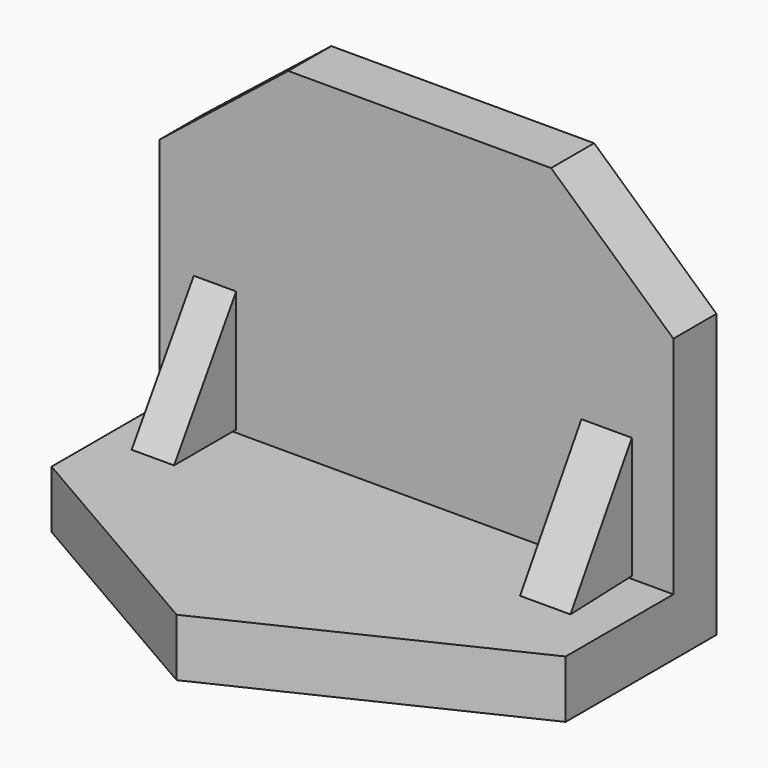
from build123d import *

# Parameters (mm, degrees)
F0_W      = 113.9668896794
F0_H      = 87.1511474252
F1_DEPTH  = 71.628
F2_W      = 113.9668896794
F2_H      = 74.3841528893
F3_DEPTH  = 59.69
F5_DEPTH  = 25.4
F7_DEPTH  = 25.4
F9_DEPTH  = 53.34
F10_DEPTH = 42.164
F12_DEPTH = 43.942
F13_DEPTH = 34.544


with BuildPart() as f1:
    # F0 (on Front) → F1 (new body)
    with BuildSketch(Plane.XZ):
        with Locations((5.3922943771, -5.2465572953)):
            Rectangle(F0_W, F0_H)
    extrude(amount=F1_DEPTH)

    # F2 (on face) → F3 (cut)
    with BuildSketch(Plane.XZ.offset(71.628)):
        with Locations((5.3922943771, 1.1369399726)):
            Rectangle(F2_W, F2_H)
    extrude(amount=-F3_DEPTH, mode=Mode.SUBTRACT)

    # F4 (on face) → F5 (cut)
    with BuildSketch(Plane.XZ.offset(11.938)):
        Polygon((-51.5911504626, 15.5939338729), (-23.0012916318, 38.3290164173), (-51.5911504626, 38.3290164173), align=None)
        Polygon((62.3757392168, 38.3290164173), (35.2685265243, 38.3290164173), (62.3757392168, 13.8450823724), align=None)
    extrude(amount=-F5_DEPTH, mode=Mode.SUBTRACT)

    # F6 (on face) → F7 (cut)
    with BuildSketch(Plane.XY.offset(-36.055136472)):
        Polygon((0, -71.628), (-51.5911504626, -41.783), (-51.5911504626, -71.628), align=None)
        Polygon((62.3757392168, -41.783), (0, -71.628), (62.3757392168, -71.628), align=None)
    extrude(amount=-F7_DEPTH, mode=Mode.SUBTRACT)

    # F11 (on Right) → F12 (join)
    with BuildSketch(Plane.YZ):
        Polygon((-11.6590159014, -8.0155739561), (-29.1475411505, -35.4142636061), (-11.6590159014, -35.4142636061), align=None)
    extrude(amount=-F12_DEPTH)

    # F13 (cut): a face of the model
    f13_faces = [f1.faces().sort_by_distance(p)[0] for p in [
        (0, -17.6745137168, -26.4270587525),
    ]]
    extrude(f13_faces, amount=-F13_DEPTH, mode=Mode.SUBTRACT)


with BuildPart() as f9:
    # F8 (on Right) → F9 (new body)
    with BuildSketch(Plane.YZ):
        Polygon((-29.1530136019, -35.9151102602), (-12.1495109051, -35.3167108349), (-12.1495109051, -8.3577046171), align=None)
    extrude(amount=F9_DEPTH)

    # F10 (cut): a face of the model
    f10_faces = [f9.faces().sort_by_distance(p)[0] for p in [
        (0, -17.8173451374, -26.5298419041),
    ]]
    extrude(f10_faces, amount=-F10_DEPTH, mode=Mode.SUBTRACT)


solid = Compound([f1.part, f9.part])
